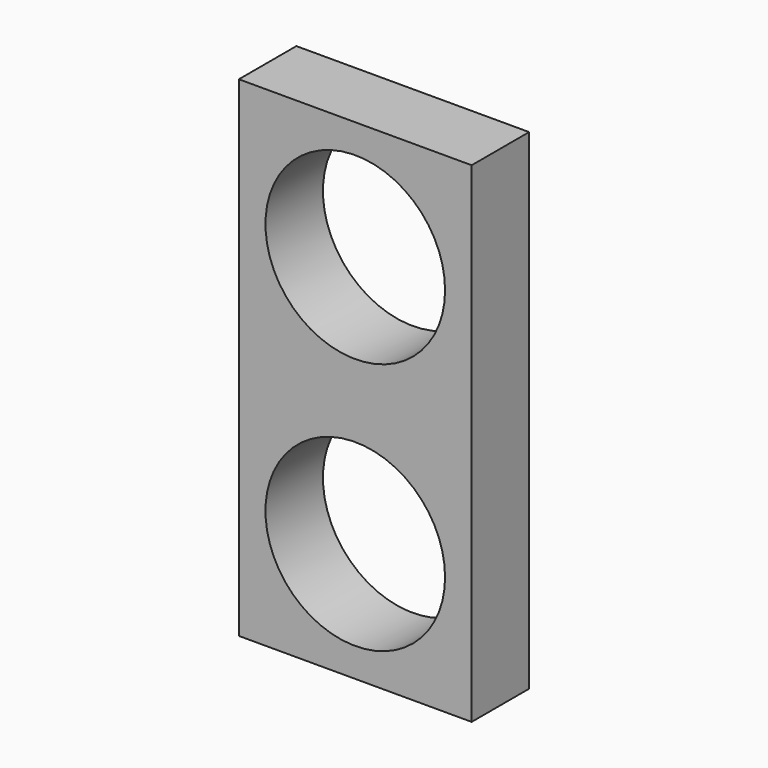
from build123d import *

# Parameters (mm, degrees)
F0_W     = 32.402042
F0_H     = 68.217468
F0_R     = 12.5
F1_DEPTH = 5


with BuildPart() as f1:
    # F0 (on Front) → F1 (new body, symmetric)
    with BuildSketch(Plane.XZ):
        with Locations((0, 17.5768)):
            Rectangle(F0_W, F0_H)
        Circle(F0_R, mode=Mode.SUBTRACT)
        with Locations((0, 35.1536)):
            Circle(F0_R, mode=Mode.SUBTRACT)
    extrude(amount=F1_DEPTH, both=True)


solid = f1.part
